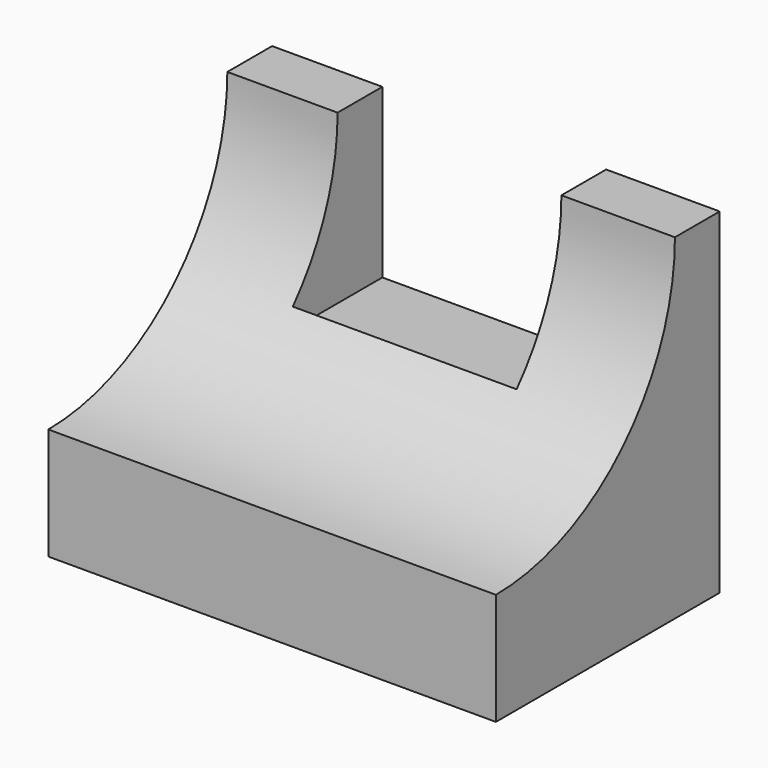
from build123d import *

# Parameters (mm, degrees)
F0_W     = 101.6
F0_H     = 76.2
F1_DEPTH = 63.5
F3_DEPTH = 101.6
F4_W     = 50.8
F4_H     = 38.1
F5_DEPTH = 25.4


with BuildPart() as f1:
    # F0 (on Front) → F1 (new body)
    with BuildSketch(Plane.XZ):
        with Locations((-4.7626945901, -22.2168454429)):
            Rectangle(F0_W, F0_H)
    extrude(amount=F1_DEPTH)

    # F2 (on face) → F3 (cut)
    with BuildSketch(Plane.YZ.offset(46.0373054099)):
        with BuildLine():
            ThreePointArc((-63.5, -34.9168454429), (-27.5789755157, -20.0378699272), (-12.7, 15.8831545571))
            Line((-12.7, 15.8831545571), (-63.5, 15.8831545571))
            Line((-63.5, 15.8831545571), (-63.5, -34.9168454429))
        make_face()
    extrude(amount=-F3_DEPTH, mode=Mode.SUBTRACT)

    # F4 (on face) → F5 (cut)
    with BuildSketch(Plane(origin=(0, 0, 0), x_dir=(-1, 0, 0), z_dir=(0, 1, 0))):
        with Locations((5.135083878, -3.1668454429)):
            Rectangle(F4_W, F4_H)
    extrude(amount=-F5_DEPTH, mode=Mode.SUBTRACT)


solid = f1.part
